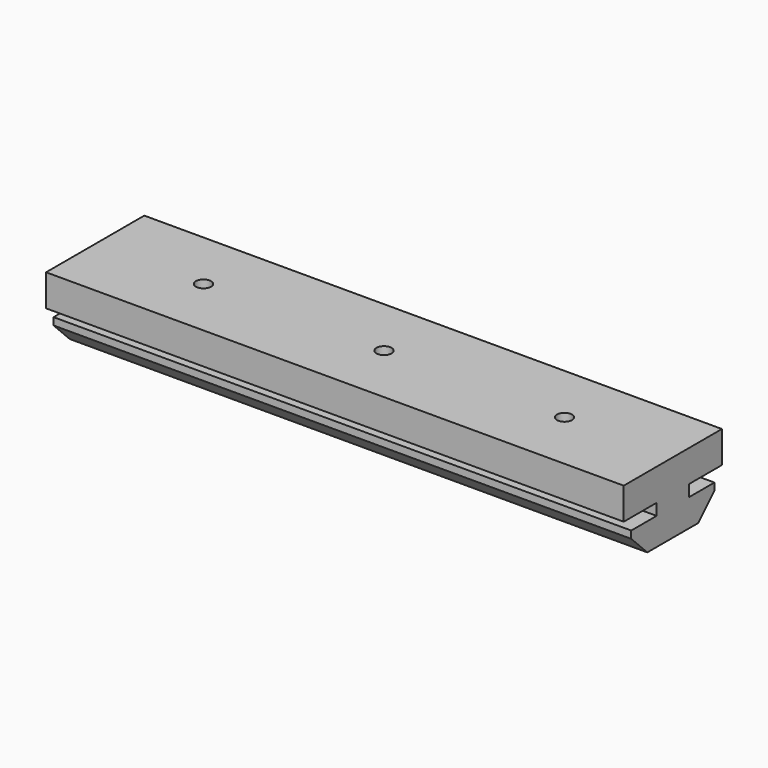
from build123d import *

# Parameters (mm, degrees)
F0_W     = 80
F0_H     = 17
F1_DEPTH = 4.9
F3_DEPTH = 80.001
F5_D     = 2.1
F5_DEPTH = 8
F5_TIP   = 0.63090365


with BuildPart() as f1:
    # F0 (on Top) → F1 (new body, symmetric)
    with BuildSketch(Plane.XY):
        Rectangle(F0_W, F0_H)
    extrude(amount=F1_DEPTH, both=True)

    # F2 (on face) → F3 (cut, through all)
    with BuildSketch(Plane(origin=(-40, 0, 0), x_dir=(0, -1, 0), z_dir=(-1, 0, 0))):
        Polygon((-2.8, 0.5), (-8.5, 0.5), (-8.5, -4.9), (-4.411739485, -4.9), (-7.2, -2.111739485), (-7.2, -1.1), (-2.8, -1.1), align=None)
        Polygon((8.5, 0.5), (2.8, 0.5), (2.8, -1.1), (7.2, -1.1), (7.2, -2.111739485), (4.411739485, -4.9), (8.5, -4.9), align=None)
    extrude(amount=-F3_DEPTH, mode=Mode.SUBTRACT)

    # F5
    with Locations(Plane.XY.offset(4.9)):
        with Locations((-25, 0), (25, 0), (0, 0)):
            Hole(F5_D / 2, depth=F5_DEPTH)
            with Locations((0, 0, -(F5_DEPTH + F5_TIP / 2))):  # 118° drill point
                Cone(0, F5_D / 2, F5_TIP, mode=Mode.SUBTRACT)


solid = f1.part
